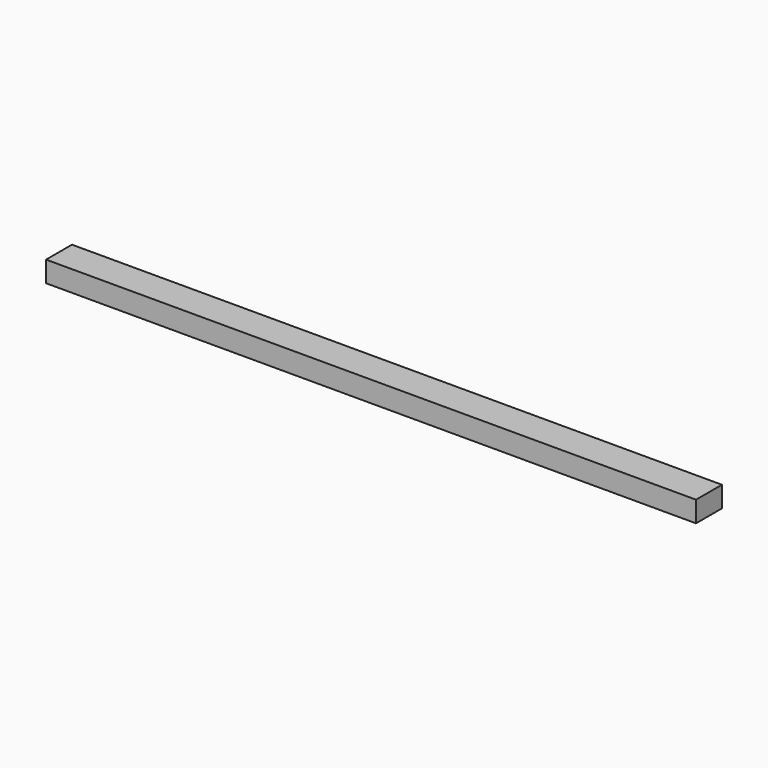
from build123d import *

# Parameters (mm, degrees)
F0_W          = 1090.9180641174
F0_H          = 102.4502143264
F1_DEPTH      = 63.5
F1_DEPTH_BACK = 63.5
F2_W          = 127
F2_H          = 102.4502143264
F2_R          = 47.3582146857
F3_DEPTH      = 1090.9190641174
F4_DEPTH      = 254
F5_DEPTH      = 254
F7_DEPTH      = 1598.9190641174


with BuildPart() as f1:
    # F0 (on Front) → F1 (new body, two sides)
    with BuildSketch(Plane.XZ) as f1_sk:
        Rectangle(F0_W, F0_H)
    extrude(amount=F1_DEPTH)
    extrude(f1_sk.sketch, amount=-F1_DEPTH_BACK)

    # F2 (on face) → F3 (cut, through all)
    with BuildSketch(Plane.YZ.offset(545.4590320587)):
        Rectangle(F2_W, F2_H)
        Circle(F2_R, mode=Mode.SUBTRACT)
    extrude(amount=-F3_DEPTH, mode=Mode.SUBTRACT)

    # F4 (add): a face of the model
    f4_faces = [f1.faces().sort_by_distance(p)[0] for p in [
        (545.4590320587, 0, 0),
    ]]
    extrude(f4_faces, amount=F4_DEPTH)

    # F5 (add): a face of the model
    f5_faces = [f1.faces().sort_by_distance(p)[0] for p in [
        (-545.4590320587, 0, 0),
    ]]
    extrude(f5_faces, amount=F5_DEPTH)

    # F6 (on face) → F7 (cut, through all)
    with BuildSketch(Plane.YZ.offset(799.4590320587)):
        with BuildLine():
            Line((39.8211405929, 25.6335182933), (39.8211405929, -25.6335182933))
            ThreePointArc((39.8211405929, -25.6335182933), (45.4348909069, -13.359310854), (47.3582146857, 0))
            ThreePointArc((47.3582146857, 0), (45.4348909069, 13.359310854), (39.8211405929, 25.6335182933))
        make_face()
        with BuildLine():
            ThreePointArc((-39.8211405929, 25.6335182933), (-47.3582146857, 0), (-39.8211405929, -25.6335182933))
            Line((-39.8211405929, -25.6335182933), (-39.8211405929, 25.6335182933))
        make_face()
        with BuildLine():
            Line((-39.8211405929, 25.6335182933), (39.8211405929, 25.6335182933))
            ThreePointArc((39.8211405929, 25.6335182933), (0, 47.3582146857), (-39.8211405929, 25.6335182933))
        make_face()
        with BuildLine():
            ThreePointArc((-39.8211405929, -25.6335182933), (0, -47.3582146857), (39.8211405929, -25.6335182933))
            Line((39.8211405929, -25.6335182933), (-39.8211405929, -25.6335182933))
        make_face()
    extrude(amount=-F7_DEPTH, mode=Mode.SUBTRACT)


solid = f1.part
